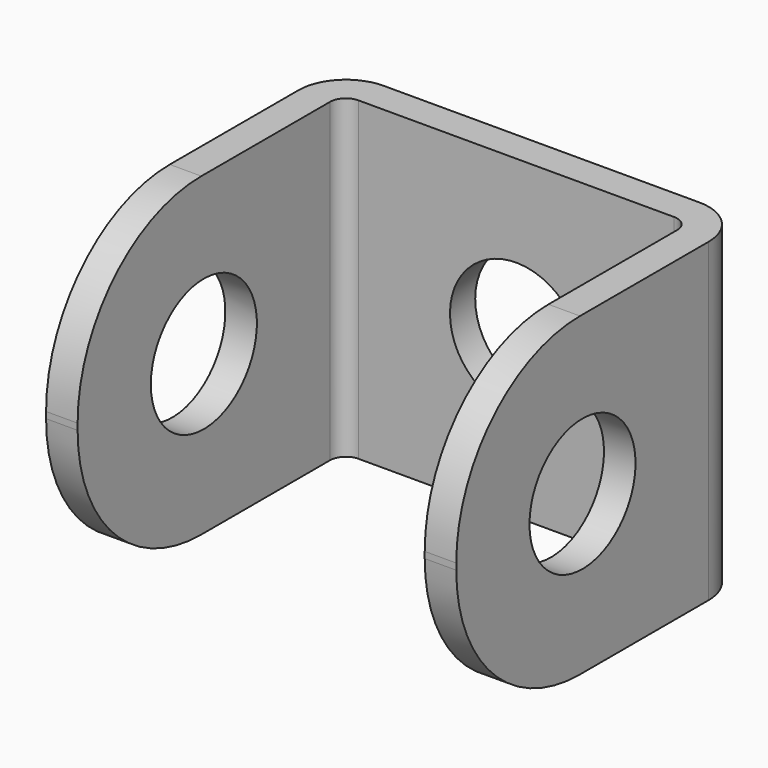
from build123d import *

# Parameters (mm, degrees)
PAD_DEPTH       = 5
SKETCH001_R     = 2.1
POCKET_DEPTH    = 13.001
SKETCH002_R     = 2.1
POCKET001_DEPTH = 5
FILLET_R        = 4.9


with BuildPart() as part:
    # Sketch → Pad (new body, symmetric)
    with BuildSketch(Plane.XY):
        with BuildLine():
            Line((-6.5, -5), (-6.5, 5))
            ThreePointArc((-5, 6.5), (-6.06066, 6.06066), (-6.5, 5))
            Line((-5, 6.5), (5, 6.5))
            ThreePointArc((6.5, 5), (6.06066, 6.06066), (5, 6.5))
            Line((6.5, 5), (6.5, -5))
            Line((5.5, -5), (6.5, -5))
            Line((5.5, 4.999996), (5.5, -5))
            ThreePointArc((5.5, 4.999996), (5.353558, 5.353549), (5.000009, 5.5))
            Line((-5, 5.5), (5.000009, 5.5))
            ThreePointArc((-5, 5.5), (-5.353553, 5.353553), (-5.5, 5))
            Line((-5.5, -5), (-5.5, 5))
            Line((-6.5, -5), (-5.5, -5))
        make_face()
    extrude(amount=PAD_DEPTH, both=True)

    # Sketch001 → Pocket (cut, through all)
    with BuildSketch(Plane(origin=(-6.5, 0, 0), x_dir=(0, -1, 0), z_dir=(-1, 0, 0))):
        Circle(SKETCH001_R)
    extrude(amount=-POCKET_DEPTH, mode=Mode.SUBTRACT)

    # Sketch002 → Pocket001 (cut)
    with BuildSketch(Plane(origin=(0, 6.5, 0), x_dir=(-1, 0, 0), z_dir=(0, 1, 0))):
        Circle(SKETCH002_R)
    extrude(amount=-POCKET001_DEPTH, mode=Mode.SUBTRACT)

    # Fillet
    fillet_edges = [part.edges().sort_by_distance(p)[0] for p in [
        (-6, -5, -5),
        (6, -5, -5),
        (6, -5, 5),
        (-6, -5, 5),
    ]]
    fillet(fillet_edges, radius=FILLET_R)


solid = part.part
